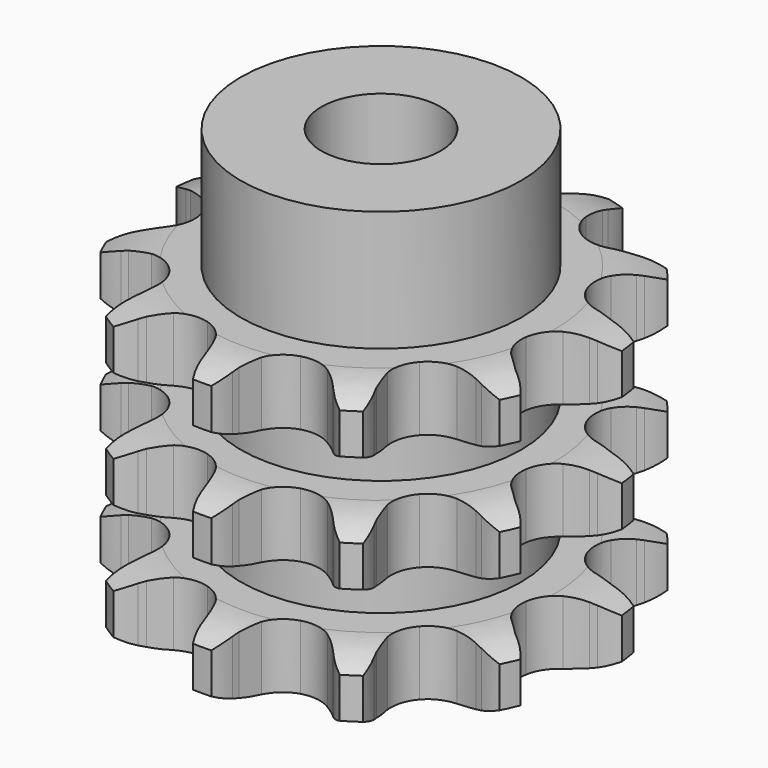
from build123d import *

# Parameters (mm, degrees)
PAD_DEPTH         = 49.8
SKETCH001_R       = 23.5
PAD001_DEPTH      = 70
SKETCH002_R       = 10
POCKET_DEPTH      = 0.001
POCKET_DEPTH_BACK = 70.001


with BuildPart() as part:
    # Sprocket → Pad (new body)
    with BuildSketch(Plane.XY):
        with BuildLine():
            ThreePointArc((-11.137083, 37.929422), (-8.841993, 36.141003), (-7.143232, 33.778781))
            Line((-7.143232, 33.778781), (-6.625418, 32.785992))
            ThreePointArc((-6.625418, 32.785992), (-5.717578, 31.261428), (-4.64411, 29.848582))
            ThreePointArc((-4.64411, 29.848582), (-2.557394, 28.267026), (0, 27.705384))
            ThreePointArc((0, 27.705384), (2.557394, 28.267026), (4.64411, 29.848582))
            ThreePointArc((4.64411, 29.848582), (5.717578, 31.261428), (6.625418, 32.785992))
            Line((6.625418, 32.785992), (7.143232, 33.778781))
            ThreePointArc((7.143232, 33.778781), (8.841993, 36.141003), (11.137083, 37.929422))
            ThreePointArc((11.137083, 37.929422), (12.100944, 35.184089), (12.252918, 32.278442))
            Line((12.252918, 32.278442), (12.151789, 31.163303))
            ThreePointArc((12.151789, 31.163303), (12.091271, 29.389943), (12.230488, 27.621021))
            ThreePointArc((12.230488, 27.621021), (13.130891, 25.162367), (14.978662, 23.307252))
            ThreePointArc((14.978662, 23.307252), (17.433725, 22.397104), (20.044236, 22.59943))
            Line((20.044236, 22.59943), (23.299101, 23.99936))
            ThreePointArc((23.299101, 23.99936), (23.780346, 24.285617), (24.271457, 24.554596))
            ThreePointArc((24.271457, 24.554596), (26.977659, 25.623404), (29.875304, 25.887098))
            ThreePointArc((29.875304, 25.887098), (29.201916, 23.056475), (27.758854, 20.529925))
            Line((27.758854, 20.529925), (27.070889, 19.646485))
            ThreePointArc((27.070889, 19.646485), (26.061227, 18.187359), (25.221992, 16.62398))
            ThreePointArc((25.221992, 16.62398), (24.650211, 14.068834), (25.201704, 11.509233))
            ThreePointArc((25.201704, 11.509233), (26.774971, 9.41626), (29.080458, 8.175118))
            Line((29.080458, 8.175118), (32.575485, 7.593101))
            ThreePointArc((32.575485, 7.593101), (33.135096, 7.573735), (33.693666, 7.5345))
            ThreePointArc((33.693666, 7.5345), (36.548109, 6.970556), (39.128327, 5.625804))
            ThreePointArc((39.128327, 5.625804), (37.031487, 3.608593), (34.451549, 2.263303))
            Line((34.451549, 2.263303), (33.395173, 1.892047))
            ThreePointArc((33.395173, 1.892047), (31.756928, 1.210417), (30.205692, 0.348943))
            ThreePointArc((30.205692, 0.348943), (28.343263, -1.491454), (27.423383, -3.942887))
            ThreePointArc((27.423383, -3.942887), (27.615353, -6.55418), (28.883841, -8.844736))
            Line((28.883841, -8.844736), (31.509382, -11.223914))
            ThreePointArc((31.509382, -11.223914), (31.969687, -11.542754), (32.418374, -11.877746))
            ThreePointArc((32.418374, -11.877746), (34.514793, -13.895395), (35.958383, -16.421643))
            ThreePointArc((35.958383, -16.421643), (33.103822, -16.984992), (30.206122, -16.721902))
            Line((30.206122, -16.721902), (29.116725, -16.463102))
            ThreePointArc((29.116725, -16.463102), (27.370028, -16.150824), (25.599298, -16.03688))
            ThreePointArc((25.599298, -16.03688), (23.037529, -16.578216), (20.938332, -18.143168))
            ThreePointArc((20.938332, -18.143168), (19.688056, -20.443715), (19.516808, -23.056449))
            Line((19.516808, -23.056449), (20.439274, -26.477415))
            ThreePointArc((20.439274, -26.477415), (20.654128, -26.9945), (20.850477, -27.518892))
            ThreePointArc((20.850477, -27.518892), (21.523274, -30.349656), (21.371906, -33.255335))
            ThreePointArc((21.371906, -33.255335), (18.665927, -32.185961), (16.370464, -30.398022))
            Line((16.370464, -30.398022), (15.593923, -29.591333))
            ThreePointArc((15.593923, -29.591333), (14.293338, -28.384292), (12.865308, -27.331108))
            ThreePointArc((12.865308, -27.331108), (10.417543, -26.401511), (7.805509, -26.583121))
            ThreePointArc((7.805509, -26.583121), (5.50994, -27.842514), (3.953327, -29.947902))
            Line((3.953327, -29.947902), (2.87984, -33.324525))
            ThreePointArc((2.87984, -33.324525), (2.781029, -33.875683), (2.662701, -34.422984))
            ThreePointArc((2.662701, -34.422984), (1.698267, -37.168116), (0, -39.530693))
            ThreePointArc((0, -39.530693), (-1.698267, -37.168116), (-2.662701, -34.422984))
            Line((-2.662701, -34.422984), (-2.87984, -33.324525))
            ThreePointArc((-2.87984, -33.324525), (-3.321386, -31.605948), (-3.953327, -29.947902))
            ThreePointArc((-3.953327, -29.947902), (-5.50994, -27.842514), (-7.805509, -26.583121))
            ThreePointArc((-7.805509, -26.583121), (-10.417543, -26.401511), (-12.865308, -27.331108))
            Line((-12.865308, -27.331108), (-15.593923, -29.591333))
            ThreePointArc((-15.593923, -29.591333), (-15.975026, -30.001576), (-16.370464, -30.398022))
            ThreePointArc((-16.370464, -30.398022), (-18.665927, -32.185961), (-21.371906, -33.255335))
            ThreePointArc((-21.371906, -33.255335), (-21.523274, -30.349656), (-20.850477, -27.518892))
            Line((-20.850477, -27.518892), (-20.439274, -26.477415))
            ThreePointArc((-20.439274, -26.477415), (-19.881593, -24.792939), (-19.516808, -23.056449))
            ThreePointArc((-19.516808, -23.056449), (-19.688056, -20.443715), (-20.938332, -18.143168))
            ThreePointArc((-20.938332, -18.143168), (-23.037529, -16.578216), (-25.599298, -16.03688))
            Line((-25.599298, -16.03688), (-29.116725, -16.463102))
            ThreePointArc((-29.116725, -16.463102), (-29.659124, -16.602181), (-30.206122, -16.721902))
            ThreePointArc((-30.206122, -16.721902), (-33.103822, -16.984992), (-35.958383, -16.421643))
            ThreePointArc((-35.958383, -16.421643), (-34.514793, -13.895395), (-32.418374, -11.877746))
            Line((-32.418374, -11.877746), (-31.509382, -11.223914))
            ThreePointArc((-31.509382, -11.223914), (-30.129535, -10.108347), (-28.883841, -8.844736))
            ThreePointArc((-28.883841, -8.844736), (-27.615353, -6.55418), (-27.423383, -3.942887))
            ThreePointArc((-27.423383, -3.942887), (-28.343263, -1.491454), (-30.205692, 0.348943))
            Line((-30.205692, 0.348943), (-33.395173, 1.892047))
            ThreePointArc((-33.395173, 1.892047), (-33.92666, 2.06829), (-34.451549, 2.263303))
            ThreePointArc((-34.451549, 2.263303), (-37.031487, 3.608593), (-39.128327, 5.625804))
            ThreePointArc((-39.128327, 5.625804), (-36.548109, 6.970556), (-33.693666, 7.5345))
            Line((-33.693666, 7.5345), (-32.575485, 7.593101))
            ThreePointArc((-32.575485, 7.593101), (-30.811563, 7.785574), (-29.080458, 8.175118))
            ThreePointArc((-29.080458, 8.175118), (-26.774971, 9.41626), (-25.201704, 11.509233))
            ThreePointArc((-25.201704, 11.509233), (-24.650211, 14.068834), (-25.221992, 16.62398))
            Line((-25.221992, 16.62398), (-27.070889, 19.646485))
            ThreePointArc((-27.070889, 19.646485), (-27.42272, 20.082093), (-27.758854, 20.529925))
            ThreePointArc((-27.758854, 20.529925), (-29.201916, 23.056475), (-29.875304, 25.887098))
            ThreePointArc((-29.875304, 25.887098), (-26.977659, 25.623404), (-24.271457, 24.554596))
            Line((-24.271457, 24.554596), (-23.299101, 23.99936))
            ThreePointArc((-23.299101, 23.99936), (-21.711137, 23.20763), (-20.044236, 22.59943))
            ThreePointArc((-20.044236, 22.59943), (-17.433725, 22.397104), (-14.978662, 23.307252))
            ThreePointArc((-14.978662, 23.307252), (-13.130891, 25.162367), (-12.230488, 27.621021))
            Line((-12.230488, 27.621021), (-12.151789, 31.163303))
            ThreePointArc((-12.151789, 31.163303), (-12.212261, 31.719974), (-12.252918, 32.278442))
            ThreePointArc((-12.252918, 32.278442), (-12.100944, 35.184089), (-11.137083, 37.929422))
        make_face()
    extrude(amount=PAD_DEPTH)

    # Sketch → Groove (revolve, cut)
    with BuildSketch(Plane.XZ):
        with BuildLine():
            ThreePointArc((29.014719, 0), (33.373618, 0.506758), (37.5, 2))
            Line((37.5, 2), (37.5, 8.8))
            ThreePointArc((37.5, 8.8), (33.373618, 10.293242), (29.014719, 10.8))
            Line((23.5, 10.8), (29.014719, 10.8))
            Line((23.5, 10.8), (23.5, 19.5))
            Line((23.5, 19.5), (29.014719, 19.5))
            ThreePointArc((29.014719, 19.5), (33.373618, 20.006758), (37.5, 21.5))
            Line((37.5, 28.3), (37.5, 21.5))
            ThreePointArc((37.5, 28.3), (33.373618, 29.793242), (29.014719, 30.3))
            Line((23.5, 30.3), (29.014719, 30.3))
            Line((23.5, 39), (23.5, 30.3))
            Line((29.014719, 39), (23.5, 39))
            ThreePointArc((29.014719, 39), (33.373618, 39.506758), (37.5, 41))
            Line((37.5, 41), (37.5, 47.8))
            ThreePointArc((37.5, 47.8), (33.373618, 49.293242), (29.014719, 49.8))
            Line((29.014719, 49.8), (47.5, 49.8))
            Line((47.5, 49.8), (47.5, 0))
            Line((29.014719, 0), (47.5, 0))
        make_face()
    revolve(axis=Axis((0, 0, 0), (0, 0, 1)), mode=Mode.SUBTRACT)

    # Sketch001 → Pad001 (join)
    with BuildSketch(Plane.XY):
        Circle(SKETCH001_R)
    extrude(amount=PAD001_DEPTH)

    # Sketch002 → Pocket (cut, two sides)
    with BuildSketch(Plane.XY) as pocket_sk:
        Circle(SKETCH002_R)
    extrude(amount=-POCKET_DEPTH, mode=Mode.SUBTRACT)
    extrude(pocket_sk.sketch, amount=POCKET_DEPTH_BACK, mode=Mode.SUBTRACT)


solid = part.part
